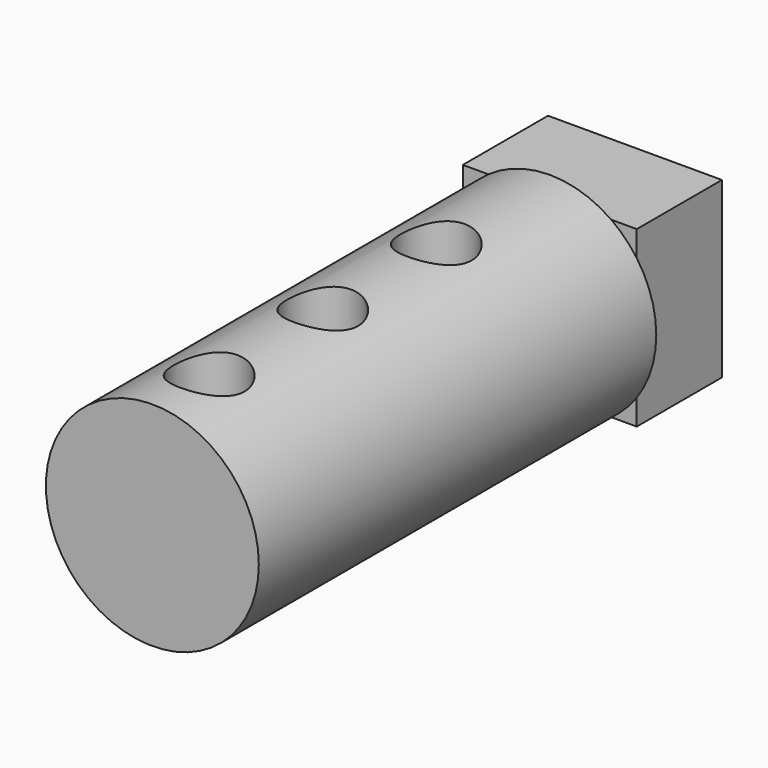
from build123d import *

# Parameters (mm, degrees)
F0_W          = 12.446
F0_H          = 12.446
F1_DEPTH      = 7.62
F2_R          = 7.62
F3_DEPTH      = 35.56
F4_R          = 2.54
F5_DEPTH      = 7.62
F5_DEPTH_BACK = 25.4


with BuildPart() as f1:
    # F0 (on Front) → F1 (new body)
    with BuildSketch(Plane.XZ):
        with Locations((-31.3575975597, 36.4074829547)):
            Rectangle(F0_W, F0_H)
    extrude(amount=F1_DEPTH)

    # F2 (on face) → F3 (join)
    with BuildSketch(Plane.XZ.offset(7.62)):
        with Locations((-31.3575975597, 36.4074829547)):
            Circle(F2_R)
    extrude(amount=F3_DEPTH)

    # F4 (on face) → F5 (cut, two sides)
    with BuildSketch(Plane.XY.offset(42.6304829547)) as f5_sk:
        with Locations((-31.3575975597, -17.78)):
            Circle(F4_R)
        with Locations((-31.3575975597, -27.94)):
            Circle(F4_R)
        with Locations((-31.3575975597, -38.1)):
            Circle(F4_R)
    extrude(amount=-F5_DEPTH, mode=Mode.SUBTRACT)
    extrude(f5_sk.sketch, amount=F5_DEPTH_BACK, mode=Mode.SUBTRACT)


solid = f1.part
